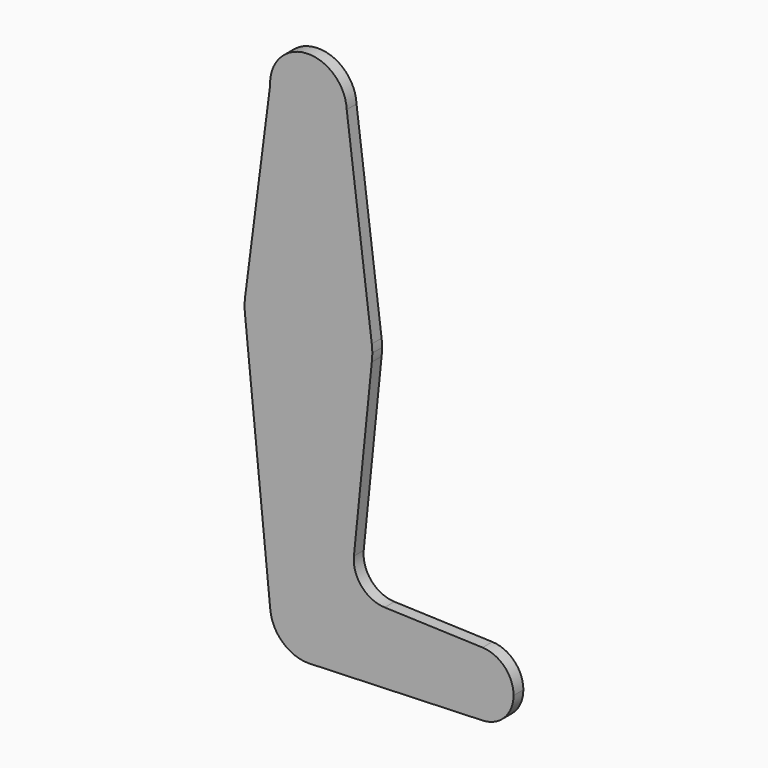
from build123d import *

# Parameters (mm, degrees)
F0_R     = 3.4358661268
F0_R_2   = 3.175
F1_DEPTH = 3.048


with BuildPart() as f1:
    # F0 (on Front) → F1 (new body)
    with BuildSketch(Plane.XZ):
        with BuildLine():
            ThreePointArc((-9.5183396769, 84.8296558798), (0.1781005018, 75.6624598361), (9.525, 85.1857946098))
            ThreePointArc((9.525, 85.1857946098), (9.5225589236, 85.4014251892), (9.5152369456, 85.6169452446))
            ThreePointArc((9.5152369456, 85.6169452446), (-0.3936477394, 94.7026568268), (-9.5183396769, 84.8296558798))
        make_face()
        with Locations((0, 85.1857946098)):
            Circle(F0_R, mode=Mode.SUBTRACT)
        with BuildLine():
            ThreePointArc((50.9971381625, -29.1142053902), (48.756887413, -23.5666769907), (43.2925762854, -21.1304711977))
            ThreePointArc((43.2925762854, -21.1304711977), (35.0195540586, -29.1142053902), (43.2925762854, -37.0979395828))
            ThreePointArc((43.2925762854, -37.0979395828), (48.756887413, -34.6617337898), (50.9971381625, -29.1142053902))
        make_face()
        with Locations((43.0083461106, -29.1142053902)):
            Circle(F0_R_2, mode=Mode.SUBTRACT)
        with BuildLine():
            ThreePointArc((9.5152369456, 85.6169452446), (9.5225589236, 85.4014251892), (9.525, 85.1857946098))
            ThreePointArc((9.525, 85.1857946098), (0.1781005018, 75.6624598361), (-9.5183396769, 84.8296558798))
            Line((-9.5183396769, 84.8296558798), (-15.7453232111, 36.4107444804))
            ThreePointArc((-15.7453232111, 36.4107444804), (0.0155737272, 50.2607869707), (15.7492659439, 36.3798475748))
            Line((15.7492659439, 36.3798475748), (9.5152369456, 85.6169452446))
        make_face()
        with Locations((-4.955154378, 70.9109946098)):
            Circle(F0_R_2, mode=Mode.SUBTRACT)
        with BuildLine():
            ThreePointArc((9.525, -29.1142053902), (-0.4763850058, -19.6011258506), (-9.477347995, -30.0657830179))
            ThreePointArc((-9.477347995, -30.0657830179), (-6.3899079843, -36.1778235107), (0, -38.6392053902))
            Line((0, -38.6392053902), (0.6773435479, -38.6150911762))
            ThreePointArc((0.6773435479, -38.6150911762), (6.9705567315, -35.6055044785), (9.525, -29.1142053902))
        make_face()
        with Locations((0, -29.1142053902)):
            Circle(F0_R_2, mode=Mode.SUBTRACT)
        with BuildLine():
            ThreePointArc((15.7492659439, 32.3917416448), (0.0155737272, 18.5108022489), (-15.7453232111, 32.3608447391))
            Line((-15.7453232111, 32.3608447391), (-9.477347995, -30.0657830179))
            ThreePointArc((-9.477347995, -30.0657830179), (-0.4763850058, -19.6011258506), (9.525, -29.1142053902))
            ThreePointArc((9.525, -29.1142053902), (6.9705567315, -35.6055044785), (0.6773435479, -38.6150911762))
            Line((0.6773435479, -38.6150911762), (43.2925762854, -37.0979395828))
            ThreePointArc((43.2925762854, -37.0979395828), (35.0195540586, -29.1142053902), (43.2925762854, -21.1304711977))
            Line((43.2925762854, -21.1304711977), (18.9326805356, -20.2632307233))
            ThreePointArc((18.9326805356, -20.2632307233), (13.2237613326, -17.5434154773), (11.3057365986, -11.5176097586))
            Line((11.3057365986, -11.5176097586), (15.7492659439, 32.3917416448))
        make_face()
        with BuildLine():
            ThreePointArc((15.875, 34.3857946098), (15.843535304, 35.3848011513), (15.7492659439, 36.3798475748))
            ThreePointArc((15.7492659439, 36.3798475748), (0.0155737272, 50.2607869707), (-15.7453232111, 36.4107444804))
            ThreePointArc((-15.7453232111, 36.4107444804), (-15.875, 34.3857946098), (-15.7453232111, 32.3608447391))
            ThreePointArc((-15.7453232111, 32.3608447391), (0.0155737272, 18.5108022489), (15.7492659439, 32.3917416448))
            ThreePointArc((15.7492659439, 32.3917416448), (15.843535304, 33.3867880682), (15.875, 34.3857946098))
        make_face()
        with Locations((0, 34.3857946098)):
            Circle(F0_R_2, mode=Mode.SUBTRACT)
        with Locations((-4.955154378, 70.9109946098)):
            Circle(F0_R_2)
        with Locations((0, -29.1142053902)):
            Circle(F0_R_2)
        with Locations((43.0083461106, -29.1142053902)):
            Circle(F0_R_2)
        with BuildLine():
            Line((0.6773435479, -38.6150911762), (0, -38.6392053902))
            ThreePointArc((0, -38.6392053902), (0.3388863295, -38.6331749277), (0.6773435479, -38.6150911762))
        make_face()
        with Locations((0, 85.1857946098)):
            Circle(F0_R)
        with Locations((0, 34.3857946098)):
            Circle(F0_R_2)
    extrude(amount=-F1_DEPTH)


solid = f1.part
